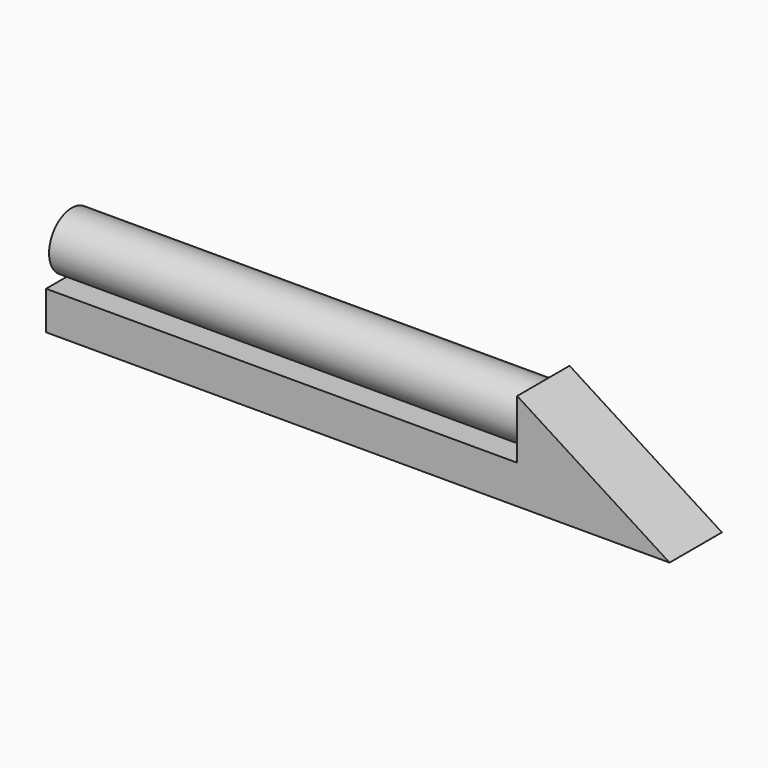
from build123d import *

# Parameters (mm, degrees)
F1_DEPTH = 213.8261944056
F2_R     = 92.4374796953
F3_DEPTH = 834.0718746185
F4_DEPTH = 265.7555639744
F5_DEPTH = 264.6364271641
F6_DEPTH = 25.4
F7_DEPTH = 416.5059328079
F8_DEPTH = 22.0245998353


with BuildPart() as f1:
    # F0 (on Front) → F1 (new body)
    with BuildSketch(Plane.XZ):
        Polygon((-378.5704374313, -238.2651567459), (953.7476301193, -238.2651567459), (456.0876488686, 79.1400074959), (456.0876488686, -112.8705143929), (-378.5704374313, -112.8705143929), align=None)
    extrude(amount=-F1_DEPTH)

    # F2 (on face) → F3 (join)
    with BuildSketch(Plane(origin=(456.0876488686, 0, 0), x_dir=(0, -1, 0), z_dir=(-1, 0, 0))):
        with Locations((-106.6404283047, -16.8652534485)):
            Circle(F2_R)
    extrude(amount=F3_DEPTH)

    # F4 (add): a face of the model
    f4_faces = [f1.faces().sort_by_distance(p)[0] for p in [
        (-378.5704374313, 106.9130972028, -175.5678355694),
    ]]
    extrude(f4_faces, amount=F4_DEPTH)

    # F5 (add): a face of the model
    f5_faces = [f1.faces().sort_by_distance(p)[0] for p in [
        (-377.98422575, 106.6404283047, -16.8652534485),
    ]]
    extrude(f5_faces, amount=F5_DEPTH)

    # F6 (add): a face of the model
    f6_faces = [f1.faces().sort_by_distance(p)[0] for p in [
        (-642.620652914, 106.6404283047, -16.8652534485),
    ]]
    extrude(f6_faces, amount=F6_DEPTH)

    # F7 (add): faces of the model
    f7_faces = [f1.faces().sort_by_distance(p)[0] for p in [
        (-668.020652914, 106.6404283047, -16.8652534485),
        (-644.3260014057, 106.9130972028, -175.5678355694),
    ]]
    extrude(f7_faces, amount=F7_DEPTH)

    # F8 (add): a face of the model
    f8_faces = [f1.faces().sort_by_distance(p)[0] for p in [
        (-1060.8319342136, 106.9130972028, -175.5678355694),
    ]]
    extrude(f8_faces, amount=F8_DEPTH)


solid = f1.part
